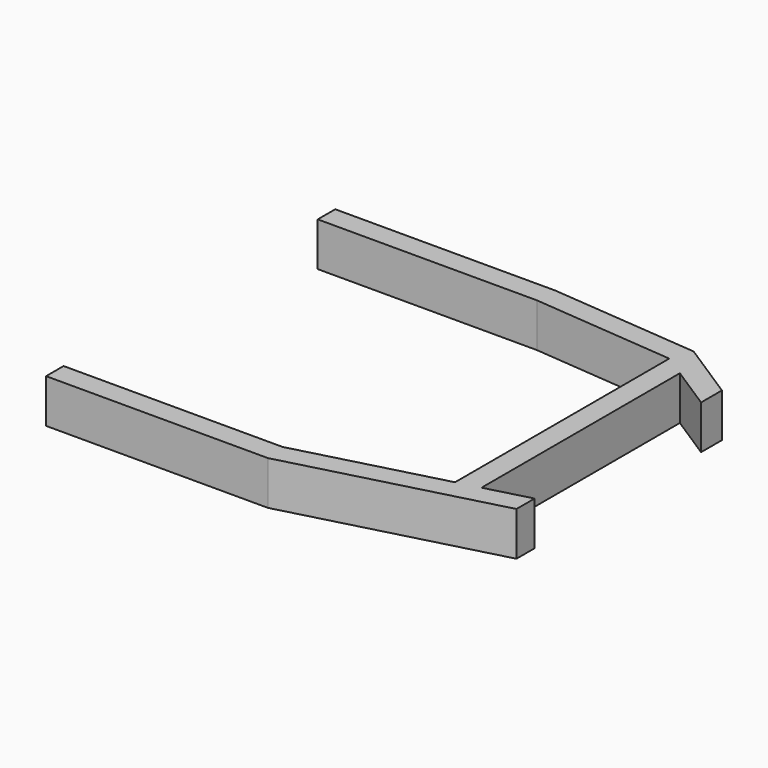
from build123d import *

# Parameters (mm, degrees)
F1_DEPTH = 25.4


with BuildPart() as f1:
    # F0 (on Top) → F1 (new body, symmetric)
    with BuildSketch(Plane.XY):
        Polygon((-183.968093, 207.519217), (-183.968093, 182.119217), (70.031907, 182.119217), (71.133753, 207.519217), align=None)
        Polygon((71.133753, 207.519217), (70.031907, 182.119217), (235.131907, 167.768217), (243.606409, 192.527363), align=None)
        Polygon((243.606409, 192.527363), (235.131907, 167.768217), (260.531907, 151.385217), (311.331907, 118.619217), (311.331907, 148.844416), align=None)
        Polygon((260.531907, 151.385217), (235.131907, 167.768217), (235.131907, 161.418217), (235.131907, 145.162217), (235.131907, 101.592698), (235.131907, -2.030783), (235.131907, -142.733415), (260.531907, -136.049204), align=None)
        Polygon((311.331907, -122.680783), (260.531907, -136.049204), (235.131907, -142.733415), (70.031907, -186.180783), (73.318071, -211.580783), (311.331907, -148.945563), align=None)
        Polygon((73.318071, -211.580783), (70.031907, -186.180783), (-183.968093, -186.180783), (-183.968093, -211.580783), align=None)
    extrude(amount=F1_DEPTH, both=True)


solid = f1.part
